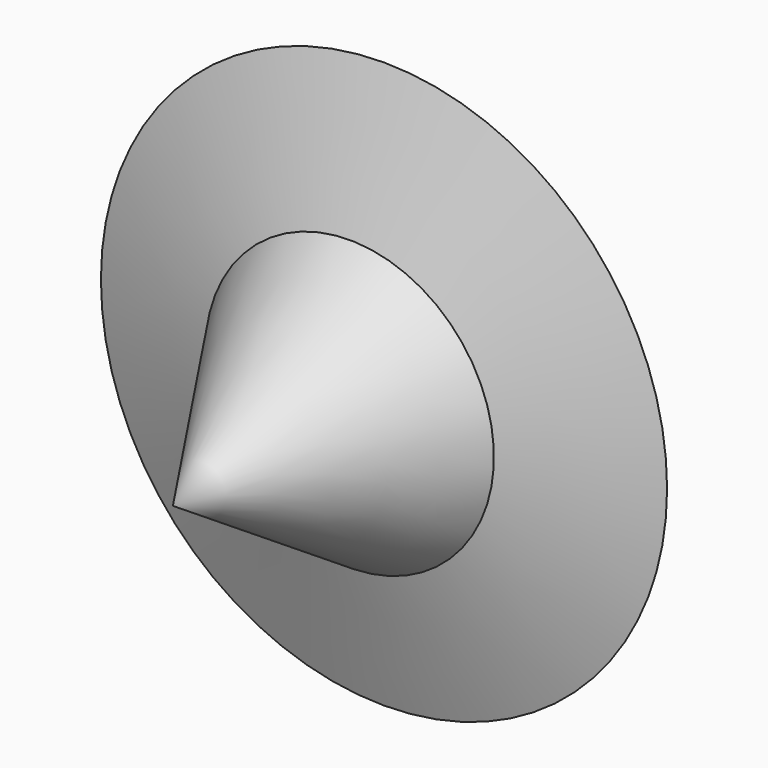
from build123d import *

# Parameters (mm, degrees)
F2_T = -2.54


with BuildPart() as f1:
    # F0 (on Top) → F1 (revolve)
    with BuildSketch(Plane.XY):
        Polygon((0, -55.626001209), (0, 61.7220029235), (-13.7159992009, 61.7220029235), (-13.7159992009, 32.4611999094), (-29.8704002053, 32.4611999094), (-94.4880023599, 32.4611999094), (-48.1583997607, 18.1356016546), align=None)
    revolve(axis=Axis((0, 10.0584011525, 0), (0, -1, 0)))

    # F2
    f2_openings = [f1.faces().sort_by_distance(p)[0] for p in [
        (0, 61.722003, 0),
    ]]
    offset(amount=F2_T, openings=f2_openings, kind=Kind.INTERSECTION)


solid = f1.part
